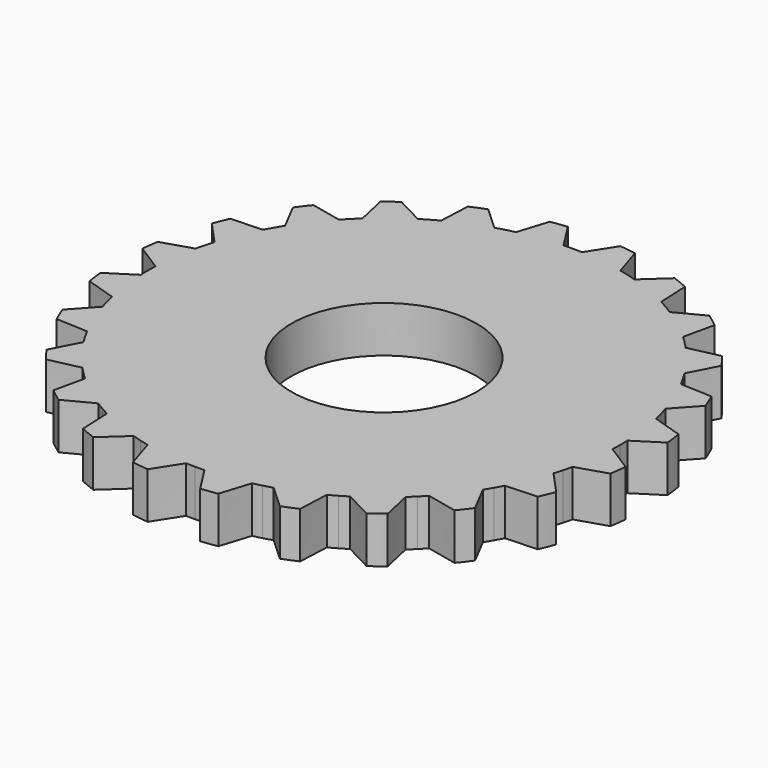
from build123d import *

# Parameters (mm, degrees)
F3_R     = 10
F4_DEPTH = 5
F5_COUNT = 24


with BuildPart() as f4:
    # F3 (on Top) → F4 (new body)
    with BuildSketch(Plane.XY):
        with BuildLine():
            ThreePointArc((25.4805062528, 0.9968957326), (25.281843965, 3.3284179016), (24.8702946581, 5.6319129629))
            ThreePointArc((24.8702946581, 5.6319129629), (-25.342084699, -2.8335036809), (25.5, 0))
            ThreePointArc((25.5, 0), (25.4951260974, 0.4985431546), (25.4805062528, 0.9968957326))
        make_face()
        Circle(F3_R, mode=Mode.SUBTRACT)
        with BuildLine():
            add(Edge.make_bspline(
                [(24.8702946581, 5.6319129629), (26.3133355626, 5.1495744617), (27.3716134165, 4.831130764), (28.125977132, 4.6021093395)],
                knots=[0.061788188, 0.061788188, 0.061788188, 0.061788188, 0.235636164, 0.235636164, 0.235636164, 0.235636164], degree=3))
            ThreePointArc((24.8702946581, 5.6319129629), (25.281843965, 3.3284179016), (25.4805062528, 0.9968957326))
            add(Edge.make_bspline(
                [(28.3587212461, 2.8342422774), (27.6893369573, 2.4177808723), (26.7495383406, 1.8362854168), (25.4805062528, 0.9968957326)],
                knots=[0.764363836, 0.764363836, 0.764363836, 0.764363836, 0.938211812, 0.938211812, 0.938211812, 0.938211812], degree=3))
            ThreePointArc((28.3587212461, 2.8342422774), (28.2561785492, 3.7199964783), (28.125977132, 4.6021093395))
        make_face()
    extrude(amount=F4_DEPTH)

    # F5: F4 ×24 about axis
    f5_axis = Axis((0, 0, 2.5), (0, 0, 1))


with BuildPart() as f4_1:
    add(f4.part)
    for i in range(1, F5_COUNT):
        add(f4.part.rotate(f5_axis, i * 360 / F5_COUNT))


solid = f4_1.part
